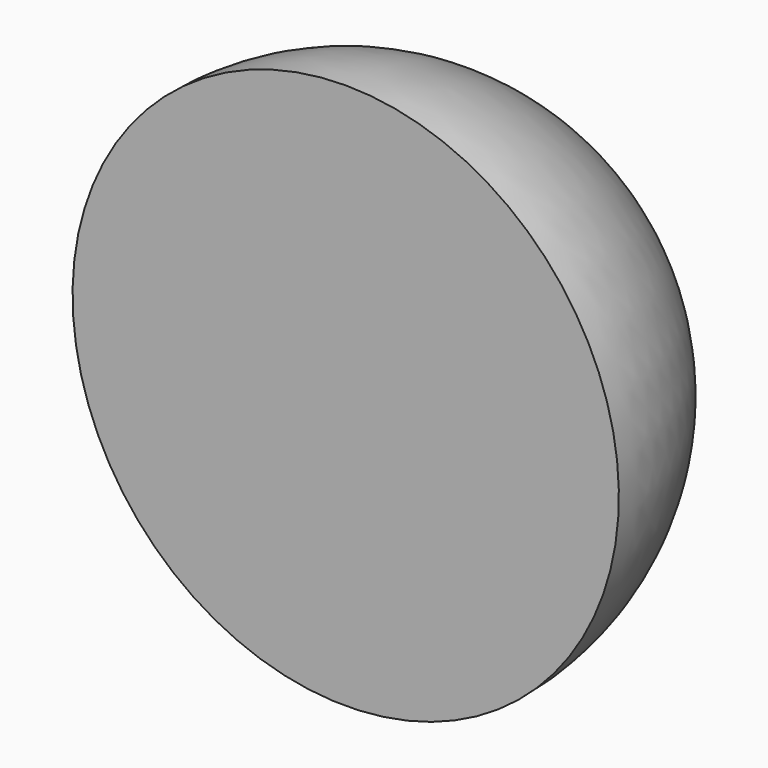
from build123d import *


with BuildPart() as f1:
    # F0 (on Right) → F1 (revolve)
    with BuildSketch(Plane.YZ):
        with BuildLine():
            ThreePointArc((13.802958, 25.225591), (2.643727, 52.166359), (-24.297042, 63.325591))
            Line((-24.297042, 63.325591), (-24.297042, 63.300191))
            Line((-24.297042, 63.300191), (-24.297042, 25.225591))
            Line((-24.297042, 25.225591), (13.776503, 25.225591))
            Line((13.776503, 25.225591), (13.802958, 25.225591))
        make_face()
    revolve(axis=Axis((0, -43.334342, 25.225591), (0, -1, 0)))


solid = f1.part
